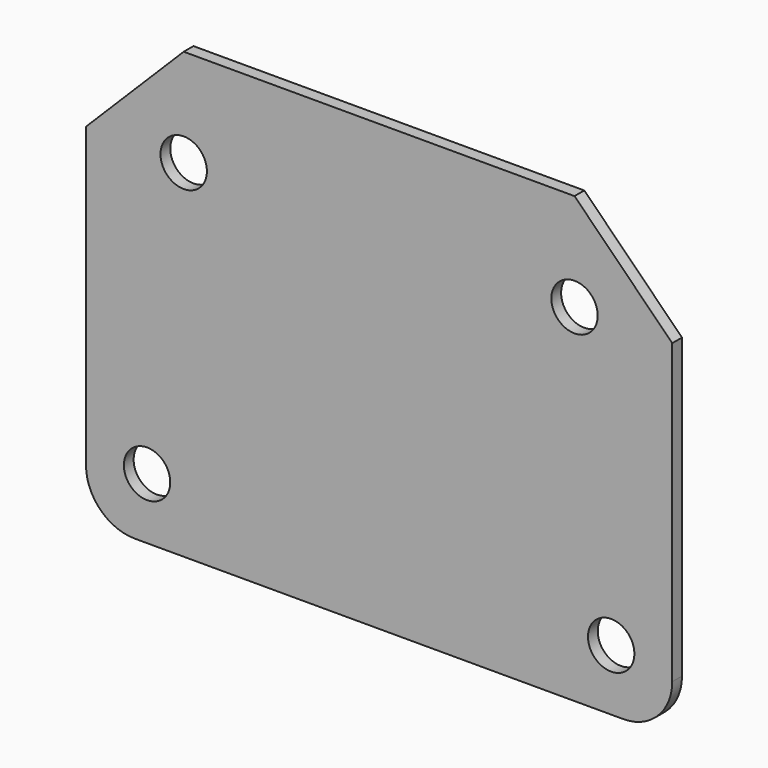
from build123d import *

# Parameters (mm, degrees)
F0_R     = 9.5
F1_DEPTH = 5
F2_R     = 20


with BuildPart() as f1:
    # F0 (on Front) → F1 (new body)
    with BuildSketch(Plane.XZ):
        with BuildLine():
            ThreePointArc((-85.5, -66), (-95, -56.5), (-104.5, -66))
            ThreePointArc((-104.5, -66), (-95, -75.5), (-85.5, -66))
        make_face()
        with Locations((95, -66)):
            Circle(F0_R)
        Polygon((120, 51), (80, 91), (-80, 91), (-120, 51), (-120, -66), (-120, -91), (120, -91), (120, -66), align=None)
        with BuildLine():
            ThreePointArc((-85.5, -66), (-95, -75.5), (-104.5, -66))
            ThreePointArc((-104.5, -66), (-95, -56.5), (-85.5, -66))
        make_face(mode=Mode.SUBTRACT)
        with Locations((95, -66)):
            Circle(F0_R, mode=Mode.SUBTRACT)
        with Locations((-80, 51)):
            Circle(F0_R, mode=Mode.SUBTRACT)
        with Locations((80, 51)):
            Circle(F0_R, mode=Mode.SUBTRACT)
    extrude(amount=F1_DEPTH)

    # F2
    f2_edges = [f1.edges().sort_by_distance(p)[0] for p in [
        (-120, -2.5, -91),
        (120, -2.5, -91),
    ]]
    fillet(f2_edges, radius=F2_R)


solid = f1.part
